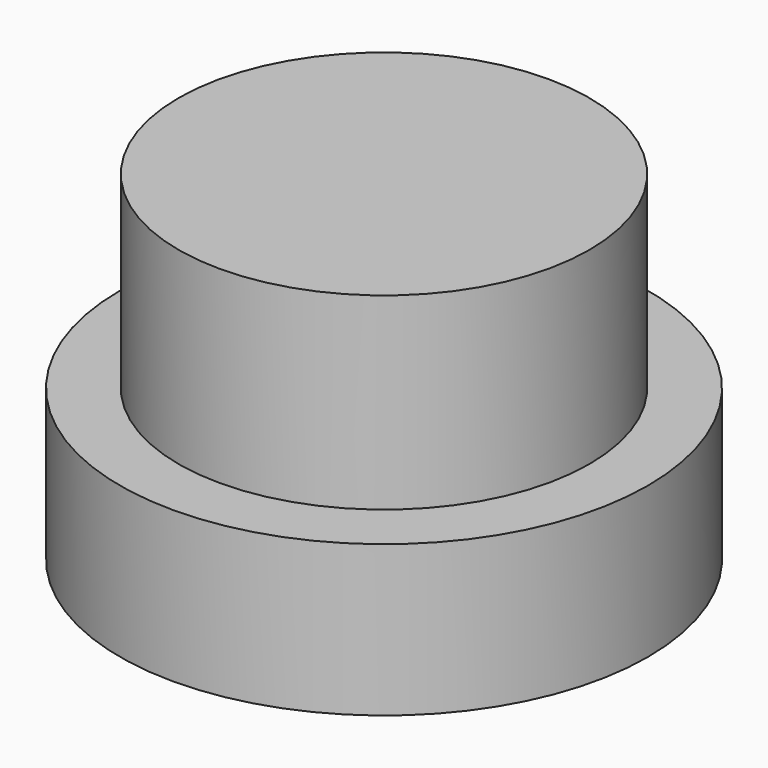
from build123d import *

# Parameters (mm, degrees)
CYLINDER001_R            = 7
CYLINDER001_DEPTH        = 4
CYLINDER_R               = 5.45
CYLINDER_DEPTH           = 5
CLONE018_PLACEMENT_ANGLE = 180


with BuildPart() as knob002:
    # Cylinder001 → Cylinder001 (new body)
    with BuildSketch(Plane(origin=(7, 0, -5), x_dir=(1, 0, 0), z_dir=(0, 0, 1))):
        Circle(CYLINDER001_R)
    extrude(amount=CYLINDER001_DEPTH)


with BuildPart() as knob004:
    # Cylinder → Cylinder (new body)
    with BuildSketch(Plane(origin=(7, 0, -10), x_dir=(1, 0, 0), z_dir=(0, 0, 1))):
        Circle(CYLINDER_R)
    extrude(amount=CYLINDER_DEPTH)

    # Fusion007: union knob002
    add(knob002.part)


with BuildPart() as knob004_1:
    # Clone018 placement: moved
    add(knob004.part.moved(Location((11, -50, 18))).rotate(Axis((11, -50, 18), (1, 0, 0)), CLONE018_PLACEMENT_ANGLE))


solid = knob004_1.part
